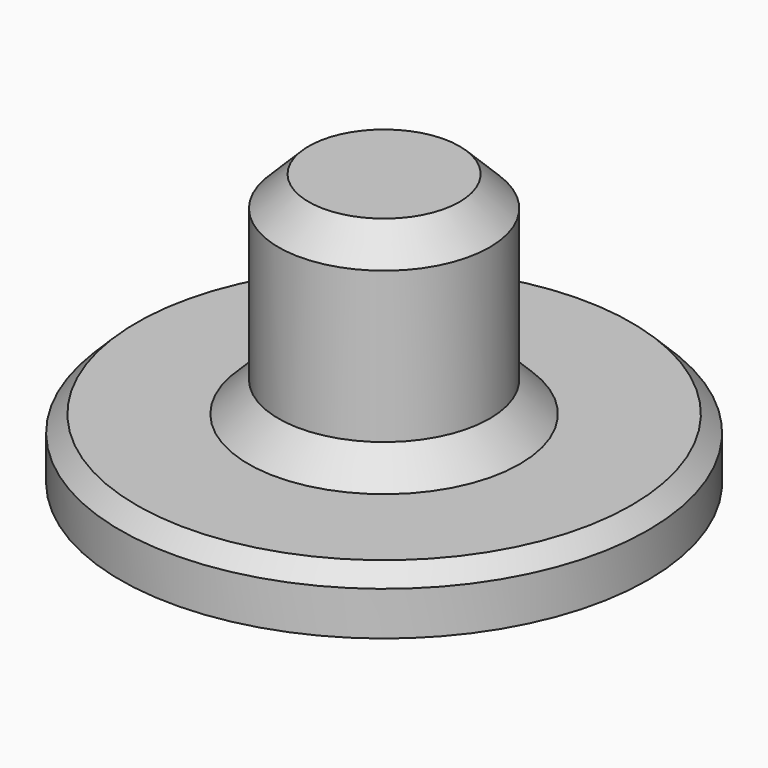
from build123d import *

# Parameters (mm, degrees)
F0_R     = 17.5
F1_DEPTH = 4
F2_R     = 7
F3_DEPTH = 14
F4_SIZE  = 1.1
F5_SIZE  = 2


with BuildPart() as f1:
    # F0 (on Top) → F1 (new body)
    with BuildSketch(Plane.XY):
        Circle(F0_R)
    extrude(amount=F1_DEPTH)

    # F2 (on face) → F3 (join)
    with BuildSketch(Plane.XY.offset(4)):
        Circle(F2_R)
    extrude(amount=F3_DEPTH)

    # F4
    f4_edges = [f1.edges().sort_by_distance(p)[0] for p in [
        (-17.5, 0, 4),
    ]]
    chamfer(f4_edges, length=F4_SIZE)

    # F5
    f5_edges = [f1.edges().sort_by_distance(p)[0] for p in [
        (-7, 0, 18),
        (-7, 0, 4),
    ]]
    chamfer(f5_edges, length=F5_SIZE)


solid = f1.part
